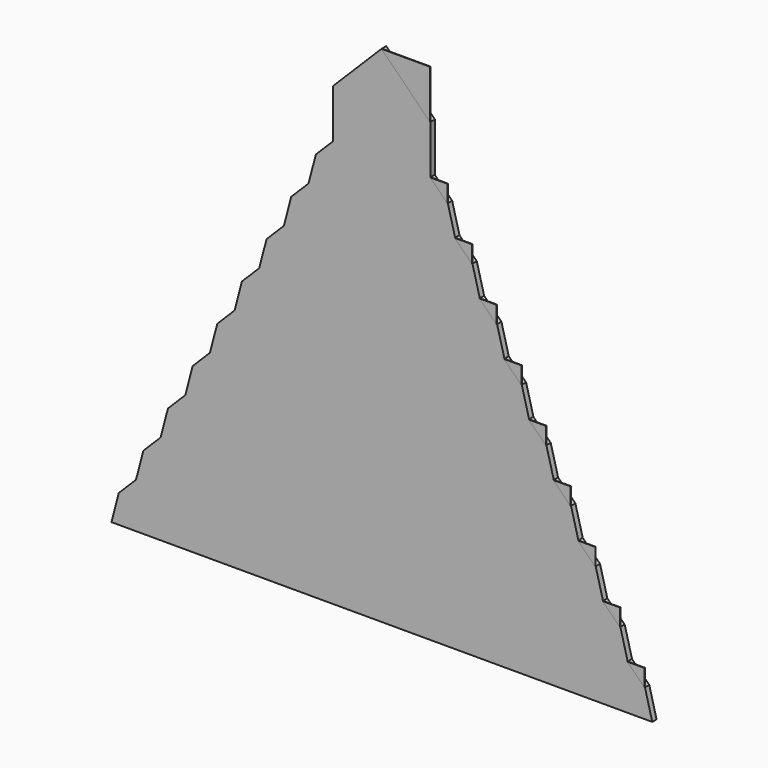
from build123d import *

# Parameters (mm, degrees)
F1_DEPTH = 1
F4_DEPTH = 0.1


with BuildPart() as f1:
    # F0 (on Front) → F1 (new body)
    with BuildSketch(Plane.XZ):
        Polygon((-50, 0), (50, 0), (48.6602375707, 5.1763770008), (45.4602378533, 8.3763767182), (44.1027078336, 13.5481225034), (40.9027081162, 16.7481222208), (39.5451780966, 21.919868006), (36.3451783791, 25.1198677235), (34.9876483595, 30.2916135086), (31.787648642, 33.4916132261), (30.4301186224, 38.6633590113), (27.230118905, 41.8633587287), (25.8725888853, 47.0351045139), (22.6725891679, 50.2351042313), (21.3150591482, 55.4068500165), (18.1150594308, 58.606849734), (16.7575294111, 63.7785955192), (13.5575296937, 66.9785952366), (12.1999996741, 72.1503410218), (8.9999999566, 75.3503407392), (8.9999999566, 84.3503407392), (0, 93.3503406959), (-8.9999999566, 84.3503407392), (-8.9999999566, 75.3503407392), (-12.1999996741, 72.1503410218), (-13.5575296937, 66.9785952366), (-16.7575294111, 63.7785955192), (-18.1150594308, 58.606849734), (-21.3150591482, 55.4068500165), (-22.6725891679, 50.2351042313), (-25.8725888853, 47.0351045139), (-27.230118905, 41.8633587287), (-30.4301186224, 38.6633590113), (-31.787648642, 33.4916132261), (-34.9876483595, 30.2916135086), (-36.3451783791, 25.1198677235), (-39.5451780966, 21.919868006), (-40.9027081162, 16.7481222208), (-44.1027078336, 13.5481225034), (-45.4602378533, 8.3763767182), (-48.6602375707, 5.1763770008), align=None)
    extrude(amount=F1_DEPTH)


with BuildPart() as f4:
    # F3 (on face) → F4 (new body)
    with BuildSketch(Plane.XZ.offset(1)):
        Polygon((45.4602378533, 8.3763767182), (48.6602375707, 5.1763770008), (48.6602375707, 8.3763767182), align=None)
    extrude(amount=F4_DEPTH)


with BuildPart() as f4b:
    # F3 (on face) → F4, piece 2 (new body)
    with BuildSketch(Plane.XZ.offset(1)):
        Polygon((40.9027081162, 16.7481222208), (44.1027078336, 13.5481225034), (44.1027078336, 16.7481222208), align=None)
    extrude(amount=F4_DEPTH)


with BuildPart() as f4c:
    # F3 (on face) → F4, piece 3 (new body)
    with BuildSketch(Plane.XZ.offset(1)):
        Polygon((36.3451783791, 25.1198677235), (39.5451780966, 21.919868006), (39.5451780966, 25.1198677235), align=None)
    extrude(amount=F4_DEPTH)


with BuildPart() as f4d:
    # F3 (on face) → F4, piece 4 (new body)
    with BuildSketch(Plane.XZ.offset(1)):
        Polygon((31.787648642, 33.4916132261), (34.9876483595, 30.2916135086), (34.9876483595, 33.4916132261), align=None)
    extrude(amount=F4_DEPTH)


with BuildPart() as f4e:
    # F3 (on face) → F4, piece 5 (new body)
    with BuildSketch(Plane.XZ.offset(1)):
        Polygon((27.230118905, 41.8633587287), (30.4301186224, 38.6633590113), (30.4301186224, 41.8633587287), align=None)
    extrude(amount=F4_DEPTH)


with BuildPart() as f4f:
    # F3 (on face) → F4, piece 6 (new body)
    with BuildSketch(Plane.XZ.offset(1)):
        Polygon((22.6725891679, 50.2351042313), (25.8725888853, 47.0351045139), (25.8725888853, 50.2351042313), align=None)
    extrude(amount=F4_DEPTH)


with BuildPart() as f4g:
    # F3 (on face) → F4, piece 7 (new body)
    with BuildSketch(Plane.XZ.offset(1)):
        Polygon((18.1150594308, 58.606849734), (21.3150591482, 55.4068500165), (21.3150591482, 58.606849734), align=None)
    extrude(amount=F4_DEPTH)


with BuildPart() as f4h:
    # F3 (on face) → F4, piece 8 (new body)
    with BuildSketch(Plane.XZ.offset(1)):
        Polygon((13.5575296937, 66.9785952366), (16.7575294111, 63.7785955192), (16.7575294111, 66.9785952366), align=None)
    extrude(amount=F4_DEPTH)


with BuildPart() as f4i:
    # F3 (on face) → F4, piece 9 (new body)
    with BuildSketch(Plane.XZ.offset(1)):
        Polygon((8.9999999566, 75.3503407392), (12.1999996741, 72.1503410218), (12.1999996741, 75.3503407392), align=None)
    extrude(amount=F4_DEPTH)


with BuildPart() as f4j:
    # F3 (on face) → F4, piece 10 (new body)
    with BuildSketch(Plane.XZ.offset(1)):
        Polygon((0, 93.3503406959), (8.9999999566, 84.3503407392), (8.9999999566, 93.3503406959), align=None)
    extrude(amount=F4_DEPTH)


solid = Compound([f1.part, f4.part, f4b.part, f4c.part, f4d.part, f4e.part, f4f.part, f4g.part, f4h.part, f4i.part, f4j.part])
